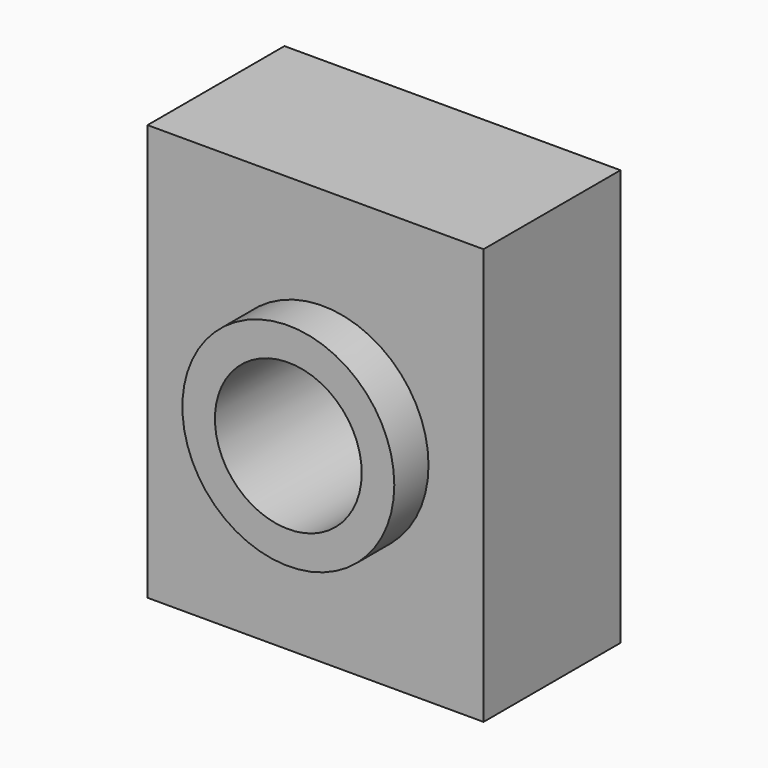
from build123d import *

# Parameters (mm, degrees)
F0_W     = 99.752728
F0_H     = 123.53637
F0_R     = 31.457287
F1_DEPTH = 50.8
F0_R_2   = 21.789122
F2_DEPTH = 63.5


with BuildPart() as f1:
    # F0 (on Front) → F1 (new body)
    with BuildSketch(Plane.XZ):
        with Locations((-2.078181, 0)):
            Rectangle(F0_W, F0_H)
        Circle(F0_R, mode=Mode.SUBTRACT)
    extrude(amount=F1_DEPTH)

    # F0 (on Front) → F2 (join)
    with BuildSketch(Plane.XZ):
        Circle(F0_R)
        Circle(F0_R_2, mode=Mode.SUBTRACT)
    extrude(amount=F2_DEPTH)


solid = f1.part
